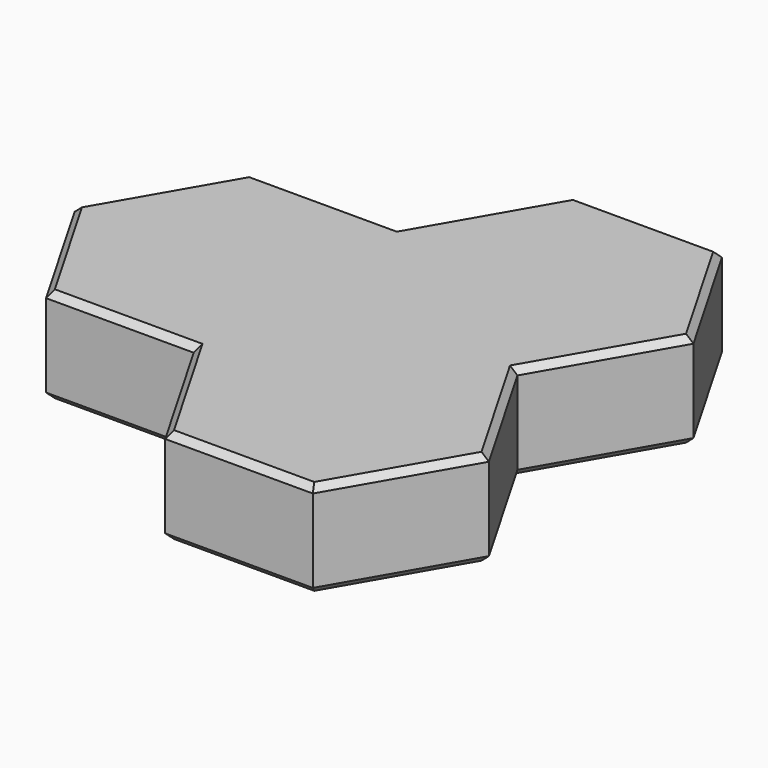
from build123d import *

# Parameters (mm, degrees)
PAD_DEPTH       = 3
SKETCH001_R     = 2.125
POCKET_DEPTH    = 2.15
CHAMFER_SIZE    = 0.2
CHAMFER001_SIZE = 0.2


with BuildPart() as part:
    # Sketch → Pad (new body)
    with BuildSketch(Plane.XY):
        Polygon((2.309401, 4), (-2.309401, 4), (-4.618802, 0), (-2.309401, -4), (2.309401, -4), (4.618802, -8), (9.237604, -8), (11.547005, -4), (9.237604, 0), (11.547005, 4), (9.237604, 8), (4.618802, 8), align=None)
    extrude(amount=PAD_DEPTH)

    # Sketch001 → Pocket (cut)
    with BuildSketch(Plane.XY):
        Circle(SKETCH001_R)
    extrude(amount=POCKET_DEPTH, mode=Mode.SUBTRACT)

    # Chamfer
    chamfer_edges = [part.edges().sort_by_distance(p)[0] for p in [
        (0, 4, 3),
        (-3.464102, 2, 3),
        (-3.464102, -2, 3),
        (0, -4, 3),
        (3.464102, -6, 3),
        (6.928203, -8, 3),
        (10.392305, -6, 3),
        (10.392305, -2, 3),
        (10.392305, 2, 3),
        (10.392305, 6, 3),
        (6.928203, 8, 3),
        (3.464102, 6, 3),
    ]]
    chamfer(chamfer_edges, length=CHAMFER_SIZE)

    # Chamfer001
    chamfer001_edges = [part.edges().sort_by_distance(p)[0] for p in [
        (0, 4, 0),
        (3.464102, 6, 0),
        (-3.464102, 2, 0),
        (6.928203, 8, 0),
        (-3.464102, -2, 0),
        (10.392305, 6, 0),
        (0, -4, 0),
        (10.392305, 2, 0),
        (3.464102, -6, 0),
        (10.392305, -2, 0),
        (6.928203, -8, 0),
        (10.392305, -6, 0),
        (-2.125, 0, 0),
    ]]
    chamfer(chamfer001_edges, length=CHAMFER001_SIZE)


solid = part.part
